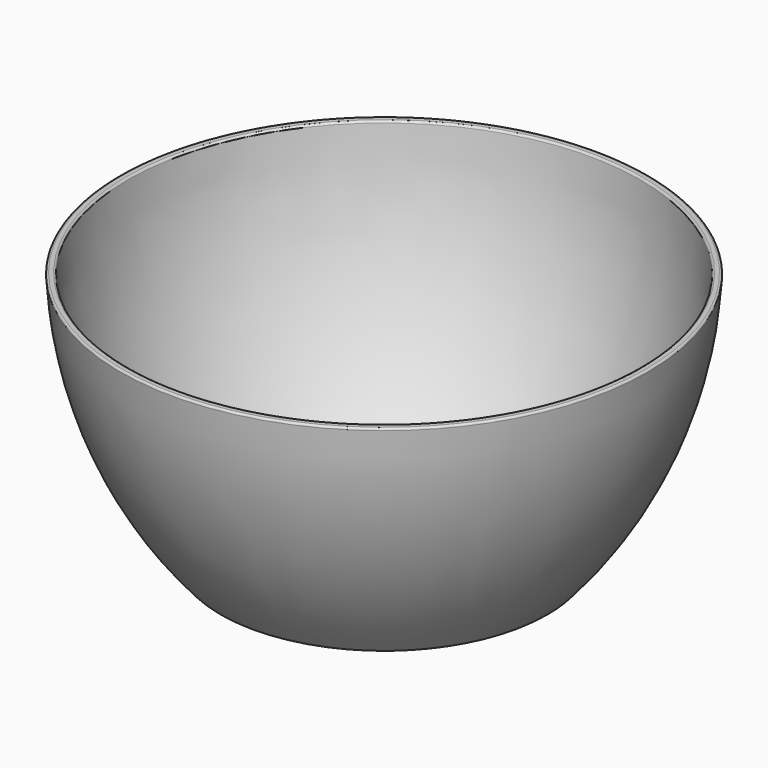
from build123d import *

# Parameters (mm, degrees)
F2_R = 0.396875
F3_R = 0.396875
F4_R = 0.396875


with BuildPart() as f1:
    # F0 (on Front) → F1 (revolve)
    with BuildSketch(Plane.XZ):
        with BuildLine():
            Line((32.789406, -49.600087), (0, -49.600087))
            Line((0, -49.600087), (0, -50.8))
            Line((0, -50.8), (33.3375, -50.8))
            ThreePointArc((33.3375, -50.8), (47.984298, -27.15827), (53.975, 0))
            Line((53.975, 0), (52.3875, 0))
            ThreePointArc((52.3875, 0), (46.752774, -26.445459), (32.789406, -49.600087))
        make_face()
    revolve(axis=Axis((0, 0, -25.4), (0, 0, -1)))

    # F2
    f2_edges = [f1.edges().sort_by_distance(p)[0] for p in [
        (-53.975, 0, 0),
    ]]
    fillet(f2_edges, radius=F2_R)

    # F3
    f3_edges = [f1.edges().sort_by_distance(p)[0] for p in [
        (-52.3875, 0, 0),
    ]]
    fillet(f3_edges, radius=F3_R)

    # F4
    f4_edges = [f1.edges().sort_by_distance(p)[0] for p in [
        (-33.3375, 0, -50.8),
    ]]
    fillet(f4_edges, radius=F4_R)


solid = f1.part
